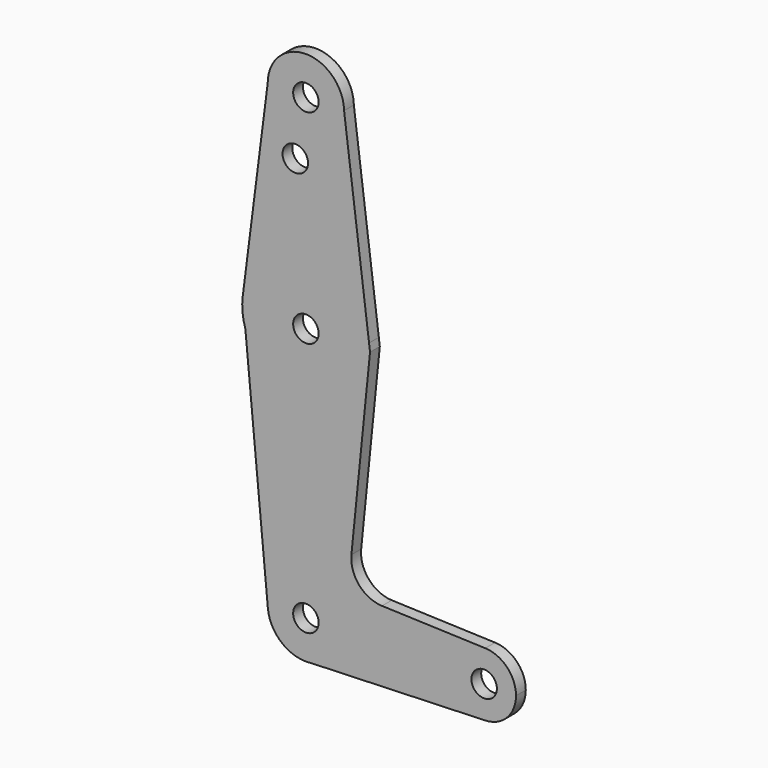
from build123d import *

# Parameters (mm, degrees)
F0_R     = 3.175
F1_DEPTH = 3.048


with BuildPart() as f1:
    # F0 (on Front) → F1 (new body)
    with BuildSketch(Plane.XZ):
        with BuildLine():
            ThreePointArc((-57.1632787375, 70.6676326506), (-47.6382787375, 61.1426326506), (-38.1132787375, 70.6676326506))
            ThreePointArc((-38.1132787375, 70.6676326506), (-38.1136745399, 70.7544651312), (-38.1148619143, 70.8412903953))
            ThreePointArc((-38.1148619143, 70.8412903953), (-47.7251112181, 80.1922368482), (-57.1632787375, 70.6676326506))
        make_face()
        with Locations((-47.6382787375, 70.6676326506)):
            Circle(F0_R, mode=Mode.SUBTRACT)
        with BuildLine():
            ThreePointArc((-38.1148619143, 70.8412903953), (-38.1136745399, 70.7544651312), (-38.1132787375, 70.6676326506))
            ThreePointArc((-38.1132787375, 70.6676326506), (-47.6382787375, 61.1426326506), (-57.1632787375, 70.6676326506))
            Line((-57.1632787375, 70.6676326506), (-63.3857356422, 21.875921981))
            ThreePointArc((-63.3857356422, 21.875921981), (-47.6349988375, 35.7426323118), (-31.8899933204, 21.8694147126))
            Line((-31.8899933204, 21.8694147126), (-38.1148619143, 70.8412903953))
        make_face()
        with Locations((-50.2802319825, 56.3928326506)):
            Circle(F0_R, mode=Mode.SUBTRACT)
        with BuildLine():
            Line((-31.6463038227, 19.952276767), (-31.8899933204, 21.8694147126))
            ThreePointArc((-31.8899933204, 21.8694147126), (-31.7949890539, 20.8705269632), (-31.7632787375, 19.8676326506))
            ThreePointArc((-31.7632787375, 19.8676326506), (-45.1485033179, 4.189091795), (-62.7323046726, 14.9497056413))
            Line((-62.7323046726, 14.9497056413), (-57.1211716657, -44.5269995145))
            ThreePointArc((-57.1211716657, -44.5269995145), (-48.0860900025, -34.1178999407), (-38.1132787375, -43.6323673494))
            ThreePointArc((-38.1132787375, -43.6323673494), (-40.5343029693, -49.9773774586), (-46.5666442568, -53.0968918773))
            Line((-46.5666442568, -53.0968918773), (-2.9099245541, -51.5649851518))
            ThreePointArc((-2.9099245541, -51.5649851518), (-11.1257784787, -43.6303405389), (-2.9058734629, -35.6998927348))
            Line((-2.9058734629, -35.6998927348), (-28.6617924819, -34.7829522168))
            ThreePointArc((-28.6617924819, -34.7829522168), (-34.3700585243, -32.0638858387), (-36.2889362684, -26.0393085604))
            Line((-36.2889362684, -26.0393085604), (-31.6463038227, 19.952276767))
        make_face()
        with BuildLine():
            ThreePointArc((-31.7632787375, 19.8676326506), (-31.7949890539, 20.8705269632), (-31.8899933204, 21.8694147126))
            ThreePointArc((-31.8899933204, 21.8694147126), (-47.6349988375, 35.7426323118), (-63.3857356422, 21.875921981))
            Line((-63.3857356422, 21.875921981), (-62.7323046726, 14.9497056413))
            ThreePointArc((-62.7323046726, 14.9497056413), (-45.1485033179, 4.189091795), (-31.7632787375, 19.8676326506))
        make_face()
        with Locations((-47.6382787375, 19.8676326506)):
            Circle(F0_R, mode=Mode.SUBTRACT)
        with BuildLine():
            Line((-62.7323046726, 14.9497056413), (-63.3857356422, 21.875921981))
            ThreePointArc((-63.3857356422, 21.875921981), (-63.4431002846, 18.376579042), (-62.7323046726, 14.9497056413))
        make_face()
        with BuildLine():
            ThreePointArc((-38.1132787375, -43.6323673494), (-48.0860900025, -34.1178999407), (-57.1211716657, -44.5269995145))
            ThreePointArc((-57.1211716657, -44.5269995145), (-54.1979368935, -50.5386333358), (-48.0438772576, -53.1487277272))
            Line((-48.0438772576, -53.1487277272), (-46.5666442568, -53.0968918773))
            ThreePointArc((-46.5666442568, -53.0968918773), (-40.5343029693, -49.9773774586), (-38.1132787375, -43.6323673494))
        make_face()
        with Locations((-47.6382787375, -43.6323673494)):
            Circle(F0_R, mode=Mode.SUBTRACT)
        with BuildLine():
            Line((-46.5666442568, -53.0968918773), (-48.0438772576, -53.1487277272))
            ThreePointArc((-48.0438772576, -53.1487277272), (-47.3042537174, -53.1515087122), (-46.5666442568, -53.0968918773))
        make_face()
        with BuildLine():
            ThreePointArc((4.7492212625, -43.6323673494), (2.5233540464, -38.1204568646), (-2.9058734629, -35.6998927348))
            ThreePointArc((-2.9058734629, -35.6998927348), (-11.1257784787, -43.6303405389), (-2.9099245541, -51.5649851518))
            ThreePointArc((-2.9099245541, -51.5649851518), (2.5219464149, -49.1457360981), (4.7492212625, -43.6323673494))
        make_face()
        with Locations((-3.1882787375, -43.6323673494)):
            Circle(F0_R, mode=Mode.SUBTRACT)
    extrude(amount=F1_DEPTH)


solid = f1.part
